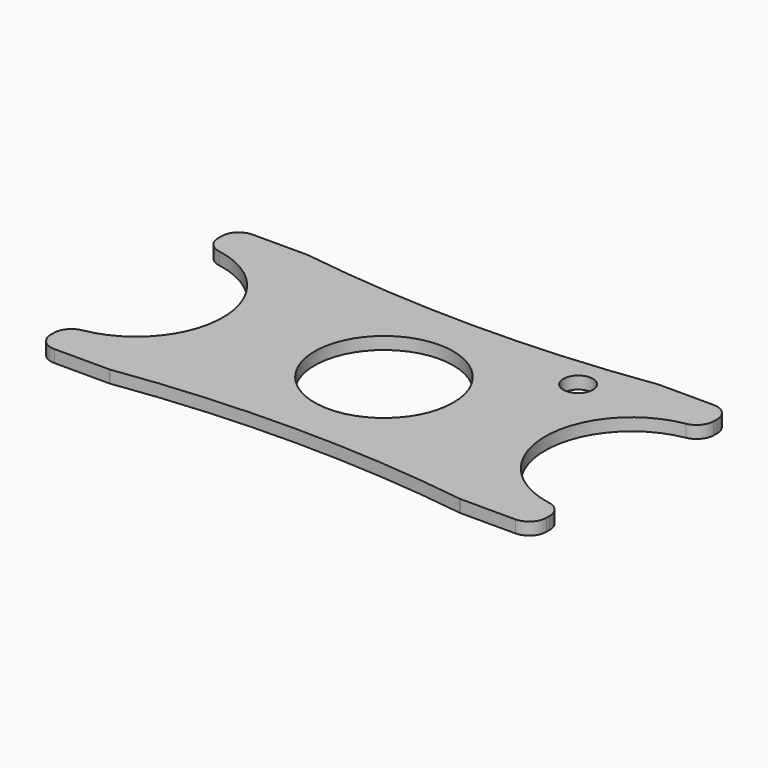
from build123d import *

# Parameters (mm, degrees)
SKETCH_R    = 14
SKETCH_R_2  = 3
PAD_DEPTH   = 2.5
FILLET_R    = 3.5
FILLET001_R = 1


with BuildPart() as part:
    # Sketch → Pad (new body)
    with BuildSketch(Plane.XY):
        with BuildLine():
            Line((-50, 25), (-50, 17.5))
            ThreePointArc((-50, -17.5), (-32.5, 0), (-50, 17.5))
            Line((-50, -17.5), (-50, -25))
            Line((-50, -25), (-35.336948, -25))
            ThreePointArc((35.336948, -25), (0, -22.49), (-35.336948, -25))
            Line((35.336948, -25), (50, -25))
            Line((50, -25), (50, -17.5))
            ThreePointArc((50, 17.5), (32.5, 0), (50, -17.5))
            Line((50, 17.5), (50, 25))
            Line((50, 25), (35.336948, 25))
            ThreePointArc((-35.336948, 25), (0, 22.49), (35.336948, 25))
            Line((-35.336948, 25), (-50, 25))
        make_face()
        Circle(SKETCH_R, mode=Mode.SUBTRACT)
        with Locations((25.44788, 17.156958)):
            Circle(SKETCH_R_2, mode=Mode.SUBTRACT)
    extrude(amount=PAD_DEPTH)

    # Fillet
    fillet_edges = [part.edges().sort_by_distance(p)[0] for p in [
        (-50, -25, 1.25),
        (50, -25, 1.25),
        (50, -17.5, 1.25),
        (50, 25, 1.25),
        (50, 17.5, 1.25),
        (-50, 17.5, 1.25),
        (-50, 25, 1.25),
        (-50, -17.5, 1.25),
    ]]
    fillet(fillet_edges, radius=FILLET_R)

    # Fillet001
    fillet001_edges = [part.edges().sort_by_distance(p)[0] for p in [
        (35.336948, 25, 1.25),
        (-35.336948, 25, 1.25),
        (-35.336948, -25, 1.25),
        (35.336948, -25, 1.25),
    ]]
    fillet(fillet001_edges, radius=FILLET001_R)


solid = part.part
